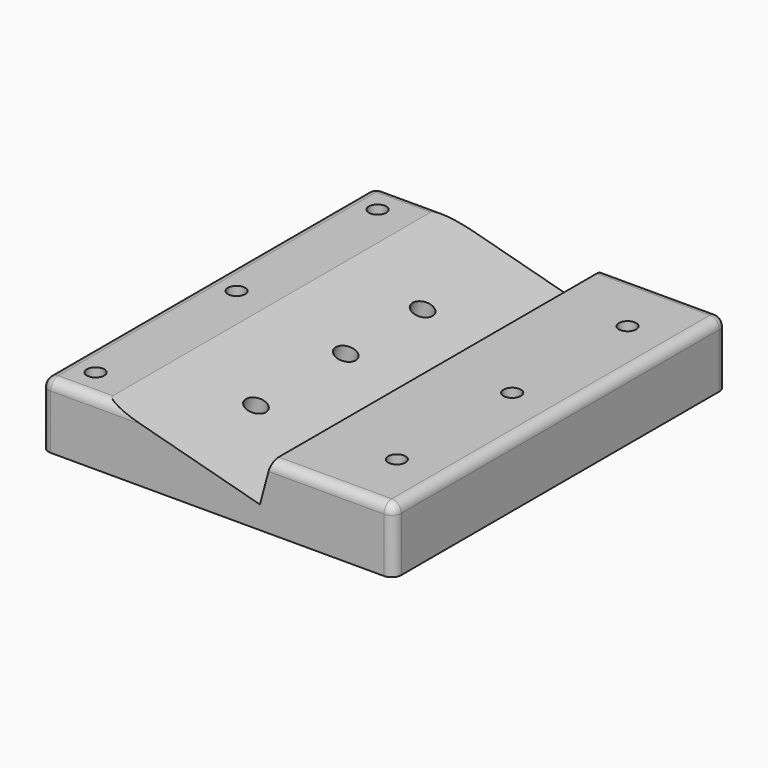
from build123d import *

# Parameters (mm, degrees)
PAD026_DEPTH      = 130
CYLINDER004_R     = 2.7
CYLINDER004_DEPTH = 30
CYLINDER005_R     = 2.7
CYLINDER005_DEPTH = 30
CYLINDER006_R     = 2.7
CYLINDER006_DEPTH = 30
CYLINDER007_R     = 2.7
CYLINDER007_DEPTH = 30
CYLINDER008_R     = 2.7
CYLINDER008_DEPTH = 30
CYLINDER009_R     = 2.7
CYLINDER009_DEPTH = 30
CYLINDER010_R     = 3.2
CYLINDER010_DEPTH = 50
CYLINDER011_R     = 3.2
CYLINDER011_DEPTH = 40
CYLINDER012_R     = 3.2
CYLINDER012_DEPTH = 40
CYLINDER013_R     = 7.5
CYLINDER013_DEPTH = 13
CYLINDER014_R     = 7.5
CYLINDER014_DEPTH = 13
CYLINDER015_R     = 7.5
CYLINDER015_DEPTH = 13
FILLET021_R       = 3


with BuildPart() as part:
    # Sketch051 → Pad026 (new body)
    with BuildSketch(Plane.XZ):
        Polygon((0, 0), (0, 20), (20, 20), (68.296291, 7.059048), (71.763809, 20), (110, 20), (110, 0), align=None)
    extrude(amount=PAD026_DEPTH)

    # Cylinder004 → Cylinder004 (cut)
    with BuildSketch(Plane(origin=(9, -10, 0), x_dir=(1, 0, 0), z_dir=(0, 0, 1))):
        Circle(CYLINDER004_R)
    extrude(amount=CYLINDER004_DEPTH, mode=Mode.SUBTRACT)

    # Cylinder005 → Cylinder005 (cut)
    with BuildSketch(Plane(origin=(95, -20, 0), x_dir=(1, 0, 0), z_dir=(0, 0, 1))):
        Circle(CYLINDER005_R)
    extrude(amount=CYLINDER005_DEPTH, mode=Mode.SUBTRACT)

    # Cylinder006 → Cylinder006 (cut)
    with BuildSketch(Plane(origin=(95, -65, 0), x_dir=(1, 0, 0), z_dir=(0, 0, 1))):
        Circle(CYLINDER006_R)
    extrude(amount=CYLINDER006_DEPTH, mode=Mode.SUBTRACT)

    # Cylinder007 → Cylinder007 (cut)
    with BuildSketch(Plane(origin=(95, -110, 0), x_dir=(1, 0, 0), z_dir=(0, 0, 1))):
        Circle(CYLINDER007_R)
    extrude(amount=CYLINDER007_DEPTH, mode=Mode.SUBTRACT)

    # Cylinder008 → Cylinder008 (cut)
    with BuildSketch(Plane(origin=(9, -65, 0), x_dir=(1, 0, 0), z_dir=(0, 0, 1))):
        Circle(CYLINDER008_R)
    extrude(amount=CYLINDER008_DEPTH, mode=Mode.SUBTRACT)

    # Cylinder009 → Cylinder009 (cut)
    with BuildSketch(Plane(origin=(9, -120, 0), x_dir=(1, 0, 0), z_dir=(0, 0, 1))):
        Circle(CYLINDER009_R)
    extrude(amount=CYLINDER009_DEPTH, mode=Mode.SUBTRACT)

    # Cylinder010 → Cylinder010 (cut)
    with BuildSketch(Plane(origin=(38, -35, -5), x_dir=(0.965926, 0, -0.258819), z_dir=(0.258819, 0, 0.965926))):
        Circle(CYLINDER010_R)
    extrude(amount=CYLINDER010_DEPTH, mode=Mode.SUBTRACT)

    # Cylinder011 → Cylinder011 (cut)
    with BuildSketch(Plane(origin=(38, -65, -5), x_dir=(0.965926, 0, -0.258819), z_dir=(0.258819, 0, 0.965926))):
        Circle(CYLINDER011_R)
    extrude(amount=CYLINDER011_DEPTH, mode=Mode.SUBTRACT)

    # Cylinder012 → Cylinder012 (cut)
    with BuildSketch(Plane(origin=(38, -100, -5), x_dir=(0.965926, 0, -0.258819), z_dir=(0.258819, 0, 0.965926))):
        Circle(CYLINDER012_R)
    extrude(amount=CYLINDER012_DEPTH, mode=Mode.SUBTRACT)

    # Cylinder013 → Cylinder013 (cut)
    with BuildSketch(Plane(origin=(38, -35, -5), x_dir=(0.965926, 0, -0.258819), z_dir=(0.258819, 0, 0.965926))):
        Circle(CYLINDER013_R)
    extrude(amount=CYLINDER013_DEPTH, mode=Mode.SUBTRACT)

    # Cylinder014 → Cylinder014 (cut)
    with BuildSketch(Plane(origin=(38, -65, -5), x_dir=(0.965926, 0, -0.258819), z_dir=(0.258819, 0, 0.965926))):
        Circle(CYLINDER014_R)
    extrude(amount=CYLINDER014_DEPTH, mode=Mode.SUBTRACT)

    # Cylinder015 → Cylinder015 (cut)
    with BuildSketch(Plane(origin=(38, -100, -5), x_dir=(0.965926, 0, -0.258819), z_dir=(0.258819, 0, 0.965926))):
        Circle(CYLINDER015_R)
    extrude(amount=CYLINDER015_DEPTH, mode=Mode.SUBTRACT)

    # Fillet021
    fillet021_edges = [part.edges().sort_by_distance(p)[0] for p in [
        (0, -65, 20),
        (110, -65, 20),
        (0, -130, 10),
        (110, -130, 10),
        (0, 0, 10),
        (110, 0, 10),
        (90.881905, -130, 20),
        (90.881905, 0, 20),
        (10, -130, 20),
        (10, 0, 20),
    ]]
    fillet(fillet021_edges, radius=FILLET021_R)


solid = part.part
